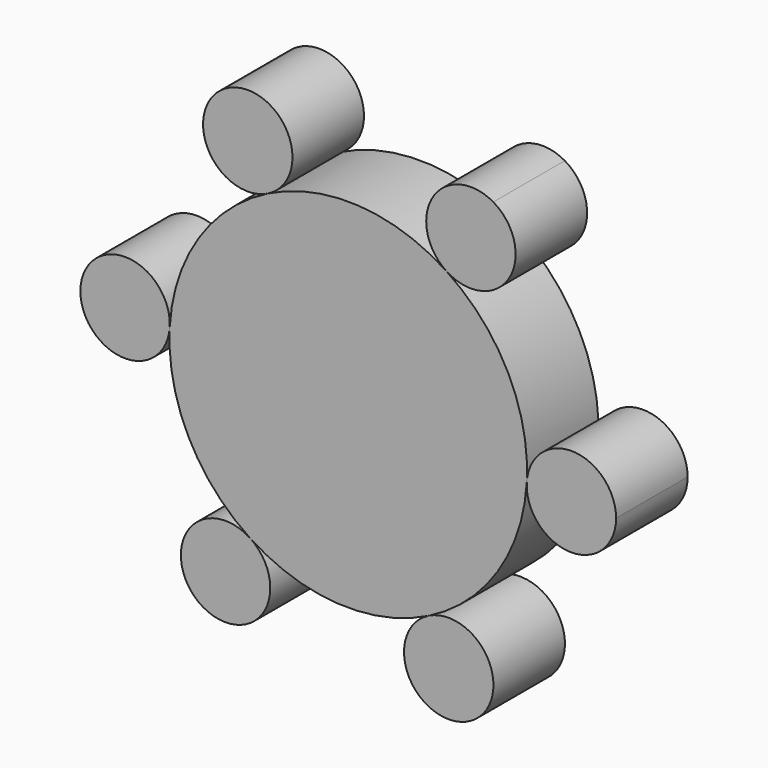
from build123d import *

# Parameters (mm, degrees)
F0_R     = 50
F2_DEPTH = 25
F1_R     = 12.5
F3_DEPTH = 25
F4_COUNT = 6


with BuildPart() as f2:
    # F0 (on Front) → F2 (new body)
    with BuildSketch(Plane.XZ):
        Circle(F0_R)
    extrude(amount=F2_DEPTH)

    # F1 (on Front) → F3 (join)
    with BuildSketch(Plane.XZ):
        with Locations((62.3970379223, -3.5860366045)):
            Circle(F1_R)
    extrude(amount=F3_DEPTH)

    # F4: F2 ×6 about axis
    f4_axis = Axis((0, -25, 0), (0, -1, 0))


with BuildPart() as f2_1:
    add(f2.part)
    for i in range(1, F4_COUNT):
        add(f2.part.rotate(f4_axis, i * 360 / F4_COUNT))


solid = f2_1.part
